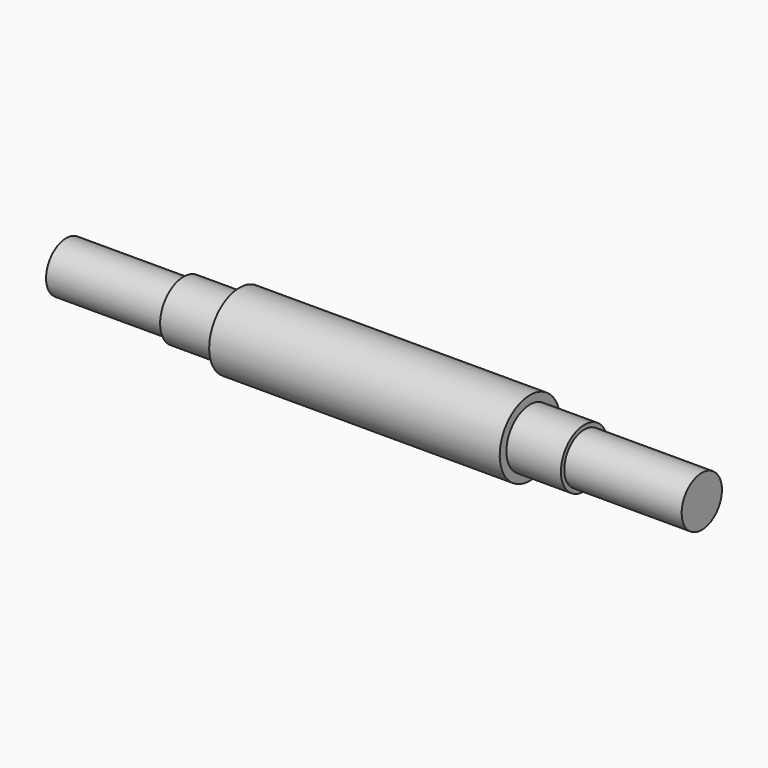
from build123d import *

# Parameters (mm, degrees)
F0_W     = 66.5
F0_H     = 35
F0_W_2   = 65
F2_R     = 30
F3_DEPTH = 140
F4_R     = 30
F5_DEPTH = 140


with BuildPart() as f1:
    # F0 (on Front) → F1 (revolve)
    with BuildSketch(Plane.XZ):
        with Locations((-165.878672, 17.5)):
            Rectangle(F0_W, F0_H)
        Polygon((-132.628672, 35), (-132.628672, 0), (213.871328, 0), (213.871328, 35), (213.871328, 45), (-132.628672, 45), align=None)
        with Locations((246.371328, 17.5)):
            Rectangle(F0_W_2, F0_H)
    revolve(axis=Axis((40.621328, 0, 0), (1, 0, 0)))

    # F2 (on face) → F3 (join)
    with BuildSketch(Plane(origin=(-199.128672, 0, 0), x_dir=(0, -1, 0), z_dir=(-1, 0, 0))):
        Circle(F2_R)
    extrude(amount=F3_DEPTH)

    # F4 (on face) → F5 (join)
    with BuildSketch(Plane.YZ.offset(278.871328)):
        Circle(F4_R)
    extrude(amount=F5_DEPTH)


solid = f1.part
